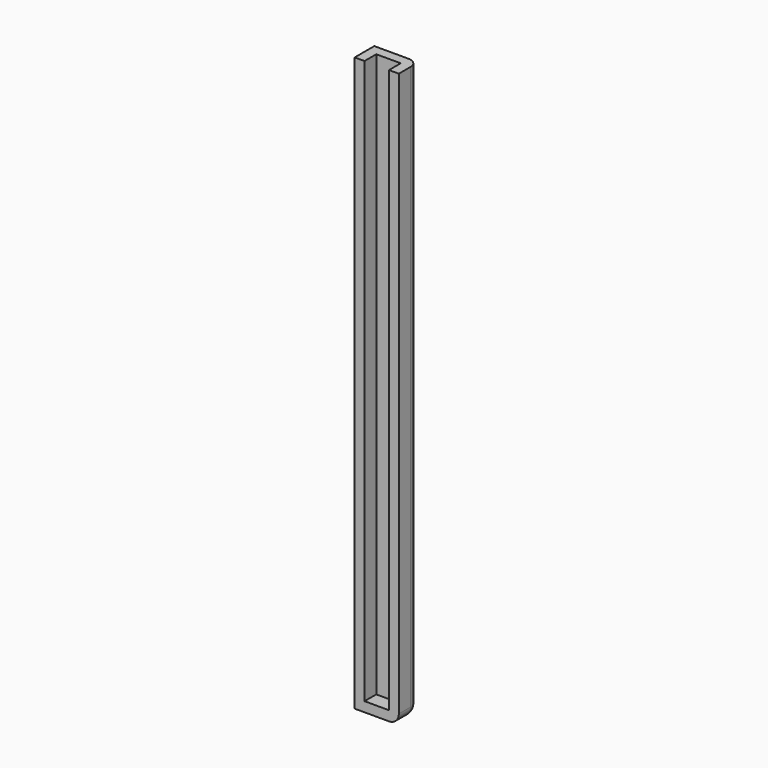
from build123d import *

# Parameters (mm, degrees)
F1_DEPTH = 115
F2_W     = 9
F2_H     = 5
F3_DEPTH = 2
F4_R     = 2


with BuildPart() as f1:
    # F0 (on Top) → F1 (new body)
    with BuildSketch(Plane.XY):
        Polygon((0, 5), (0, 0), (2, 0), (2, 3), (7, 3), (7, 0), (9, 0), (9, 5), align=None)
    extrude(amount=F1_DEPTH)

    # F2 (on Top) → F3 (join)
    with BuildSketch(Plane.XY):
        with Locations((4.5, 2.5)):
            Rectangle(F2_W, F2_H)
    extrude(amount=-F3_DEPTH)

    # F4
    f4_edges = [f1.edges().sort_by_distance(p)[0] for p in [
        (4.5, 5, -2),
        (9, 5, 56.5),
        (9, 2.5, -2),
    ]]
    fillet(f4_edges, radius=F4_R)


solid = f1.part
